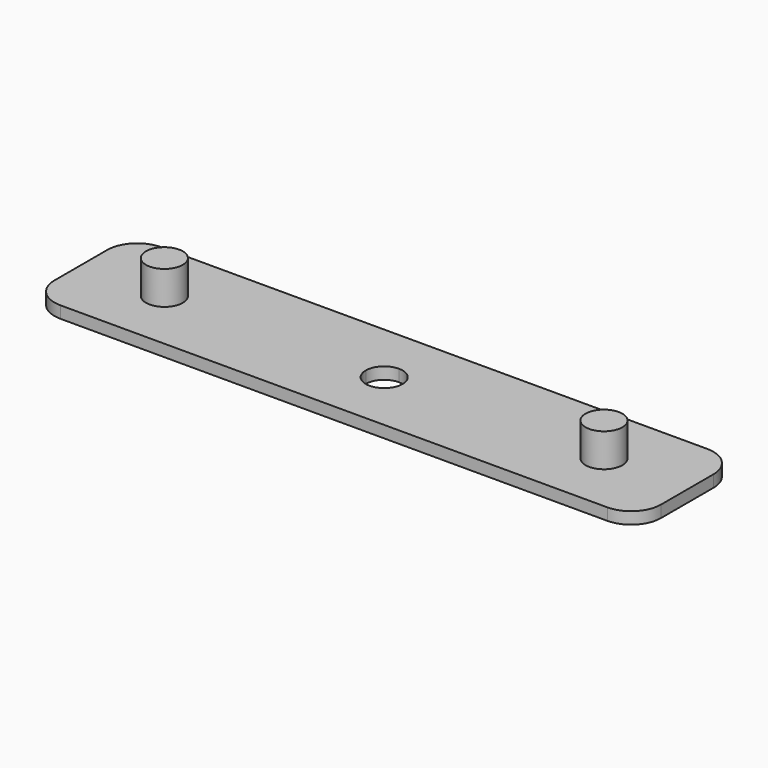
from build123d import *

# Parameters (mm, degrees)
F1_DEPTH = 9.684
F2_DEPTH = 2.54


with BuildPart() as f1:
    # F0 (on Top) → F1 (new body)
    with BuildSketch(Plane.XY):
        with BuildLine():
            ThreePointArc((50.927, 0), (46.99, 3.937), (43.053, 0))
            ThreePointArc((43.053, 0), (46.99, -3.937), (50.927, 0))
        make_face()
    extrude(amount=F1_DEPTH)


with BuildPart() as f1b:
    # F0 (on Top) → F1, piece 2 (new body)
    with BuildSketch(Plane.XY):
        with BuildLine():
            ThreePointArc((-50.927, 0), (-46.99, -3.937), (-43.053, 0))
            ThreePointArc((-43.053, 0), (-46.99, 3.937), (-50.927, 0))
        make_face()
    extrude(amount=F1_DEPTH)


with BuildPart() as f2:
    # F0 (on Top) → F2 (new body)
    with BuildSketch(Plane.XY):
        with BuildLine():
            ThreePointArc((-3.937, 0), (-2.7838793975, 2.7838793975), (0, 3.937))
            Line((0, 3.937), (0, 13.462))
            Line((0, 13.462), (-58.4426107049, 13.462))
            ThreePointArc((-58.4426107049, 13.462), (-62.9725095854, 11.5856544475), (-64.8488551378, 7.0557555671))
            Line((-64.8488551378, 7.0557555671), (-64.8488551378, 0))
            Line((-64.8488551378, 0), (-50.927, 0))
            ThreePointArc((-50.927, 0), (-46.99, 3.937), (-43.053, 0))
            Line((-43.053, 0), (-3.937, 0))
        make_face()
        with BuildLine():
            Line((0, -13.462), (0, -3.937))
            ThreePointArc((0, -3.937), (-2.7838793975, -2.7838793975), (-3.937, 0))
            Line((-3.937, 0), (-43.053, 0))
            ThreePointArc((-43.053, 0), (-46.99, -3.937), (-50.927, 0))
            Line((-50.927, 0), (-64.8488551378, 0))
            Line((-64.8488551378, 0), (-64.8488551378, -7.0557555671))
            ThreePointArc((-64.8488551378, -7.0557555671), (-62.9725095854, -11.5856544475), (-58.4426107049, -13.462))
            Line((-58.4426107049, -13.462), (0, -13.462))
        make_face()
        with BuildLine():
            ThreePointArc((0, 3.937), (2.7838793975, 2.7838793975), (3.937, 0))
            ThreePointArc((3.937, 0), (2.7838793975, -2.7838793975), (0, -3.937))
            Line((0, -3.937), (0, -13.462))
            Line((0, -13.462), (58.4979908705, -13.462))
            ThreePointArc((58.4979908705, -13.462), (62.988118931, -11.6021280605), (64.8479908705, -7.112))
            Line((64.8479908705, -7.112), (64.8479908705, 6.9048068042))
            ThreePointArc((64.8479908705, 6.9048068042), (62.927433449, 11.5414425785), (58.2907976747, 13.462))
            Line((58.2907976747, 13.462), (0, 13.462))
            Line((0, 13.462), (0, 3.937))
        make_face()
        with BuildLine():
            ThreePointArc((50.927, 0), (46.99, -3.937), (43.053, 0))
            ThreePointArc((43.053, 0), (46.99, 3.937), (50.927, 0))
        make_face(mode=Mode.SUBTRACT)
    extrude(amount=F2_DEPTH)


solid = Compound([f1.part, f1b.part, f2.part])
